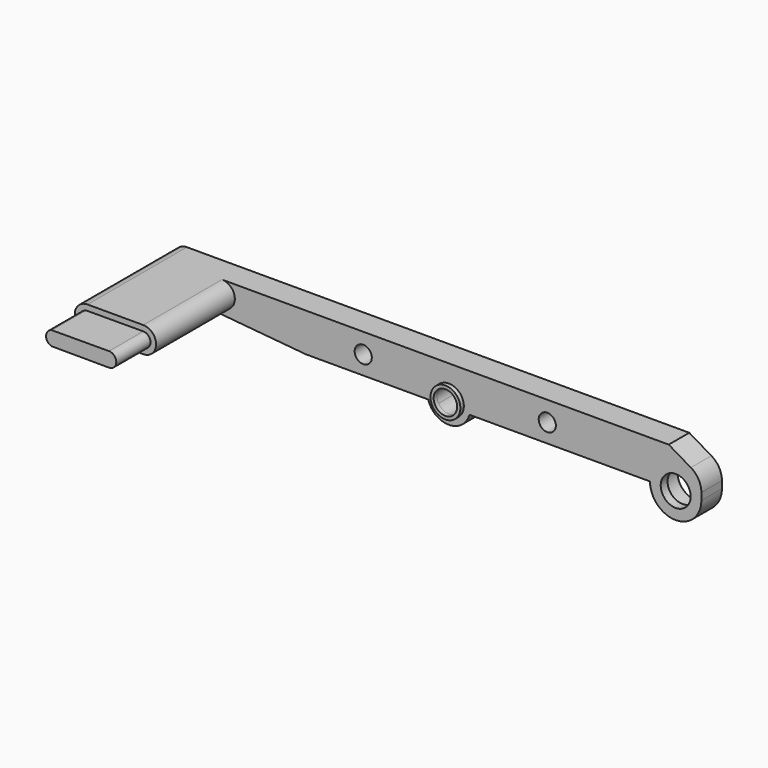
from build123d import *

# Parameters (mm, degrees)
F0_R     = 2
F1_DEPTH = 6
F2_R     = 4.4
F3_DEPTH = 4
F4_R     = 3.5
F4_R_2   = 2.75
F5_DEPTH = 7
F6_W     = 13
F6_H     = 6
F7_DEPTH = 23
F9_DEPTH = 10


with BuildPart() as f1:
    # F0 (on Front) → F1 (new body)
    with BuildSketch(Plane.XZ):
        with BuildLine():
            Line((0, 3), (32.554146, 0))
            Line((32.554146, 0), (61.188469, 0))
            Line((61.188469, 0), (63.609742, 0))
            ThreePointArc((63.609742, 0), (65.29669, 4.018384), (68.75, 1.359841))
            ThreePointArc((68.75, 1.359841), (68.658544, 0.65653), (68.390258, 0))
            Line((68.390258, 0), (70.811531, 0))
            Line((70.811531, 0), (113, 0))
            Line((113, 0), (115.5, 0))
            ThreePointArc((115.5, 0), (119, 3.5), (122.5, 0))
            Line((122.5, 0), (125, 0))
            Line((125, 0), (125, 1.644468))
            ThreePointArc((125, 1.644468), (124.341818, 4.124108), (122.540554, 5.950927))
            Line((122.540554, 5.950927), (117.372112, 9))
            Line((117.372112, 9), (0, 9))
            Line((0, 9), (0, 3))
        make_face()
        with Locations((46, 4.333029)):
            Circle(F0_R, mode=Mode.SUBTRACT)
        with Locations((89, 4.333029)):
            Circle(F0_R, mode=Mode.SUBTRACT)
        with BuildLine():
            Line((63.609742, 0), (61.188469, 0))
            ThreePointArc((61.188469, 0), (66, -3.640159), (70.811531, 0))
            Line((70.811531, 0), (68.390258, 0))
            ThreePointArc((68.390258, 0), (66, -1.390159), (63.609742, 0))
        make_face()
        with BuildLine():
            ThreePointArc((0, 9), (-3, 6), (0, 3))
            Line((0, 3), (0, 9))
        make_face()
        with BuildLine():
            Line((115.5, 0), (113, 0))
            ThreePointArc((113, 0), (119, -6), (125, 0))
            Line((125, 0), (122.5, 0))
            ThreePointArc((122.5, 0), (119, -3.5), (115.5, 0))
        make_face()
    extrude(amount=F1_DEPTH)

    # F2 (on face) → F3 (cut)
    with BuildSketch(Plane(origin=(0, 0, 0), x_dir=(-1, 0, 0), z_dir=(0, 1, 0))):
        with Locations((-119, 0)):
            Circle(F2_R)
    extrude(amount=-F3_DEPTH, mode=Mode.SUBTRACT)

    # F4 (on face) → F5 (join)
    with BuildSketch(Plane(origin=(0, 0, 0), x_dir=(-1, 0, 0), z_dir=(0, 1, 0))):
        with Locations((-66, 1.359841)):
            Circle(F4_R)
        with Locations((-66, 1.359841)):
            Circle(F4_R_2, mode=Mode.SUBTRACT)
    extrude(amount=-F5_DEPTH)

    # F6 (on face) → F7 (join)
    with BuildSketch(Plane.XZ.offset(6)):
        with BuildLine():
            Line((0, 3), (0, 9))
            ThreePointArc((0, 9), (-3, 6), (0, 3))
        make_face()
        with Locations((6.5, 6)):
            Rectangle(F6_W, F6_H)
        with BuildLine():
            ThreePointArc((13, 3), (16, 6), (13, 9))
            Line((13, 9), (13, 3))
        make_face()
    extrude(amount=F7_DEPTH)

    # F8 (on face) → F9 (join)
    with BuildSketch(Plane.XZ.offset(29)):
        with BuildLine():
            Line((13, 7.7), (-0.358373, 7.661797))
            ThreePointArc((-0.358373, 7.661797), (-1.7, 6), (-0.358373, 4.338203))
            Line((-0.358373, 4.338203), (13, 4.3))
            ThreePointArc((13, 4.3), (14.7, 6), (13, 7.7))
        make_face()
    extrude(amount=F9_DEPTH)


solid = f1.part
